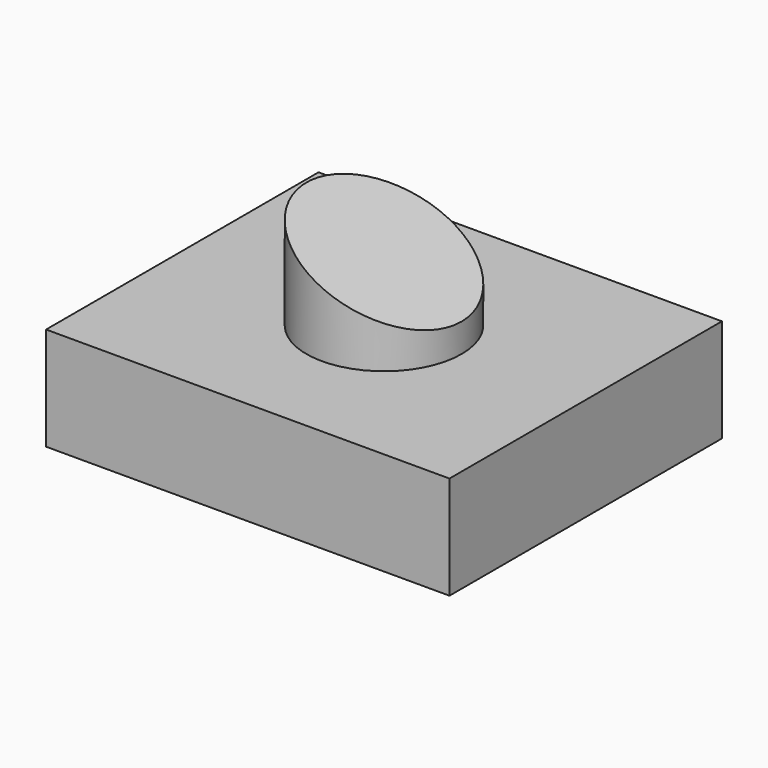
from build123d import *

# Parameters (mm, degrees)
F0_W     = 99.320174
F0_H     = 83.844102
F1_DEPTH = 25.4
F2_R     = 19.095077
F3_DEPTH = 25.4
F5_DEPTH = 44.35832


with BuildPart() as f1:
    # F0 (on Top) → F1 (new body)
    with BuildSketch(Plane.XY):
        Rectangle(F0_W, F0_H)
    extrude(amount=F1_DEPTH)

    # F2 (on face) → F3 (join)
    with BuildSketch(Plane.XY.offset(25.4)):
        Circle(F2_R)
    extrude(amount=F3_DEPTH)

    # F4 (on Front) → F5 (cut, symmetric)
    with BuildSketch(Plane.XZ):
        Polygon((21.894151, 53.422578), (-26.067015, 53.422578), (21.894151, 31.12971), align=None)
    extrude(amount=F5_DEPTH, both=True, mode=Mode.SUBTRACT)


solid = f1.part
